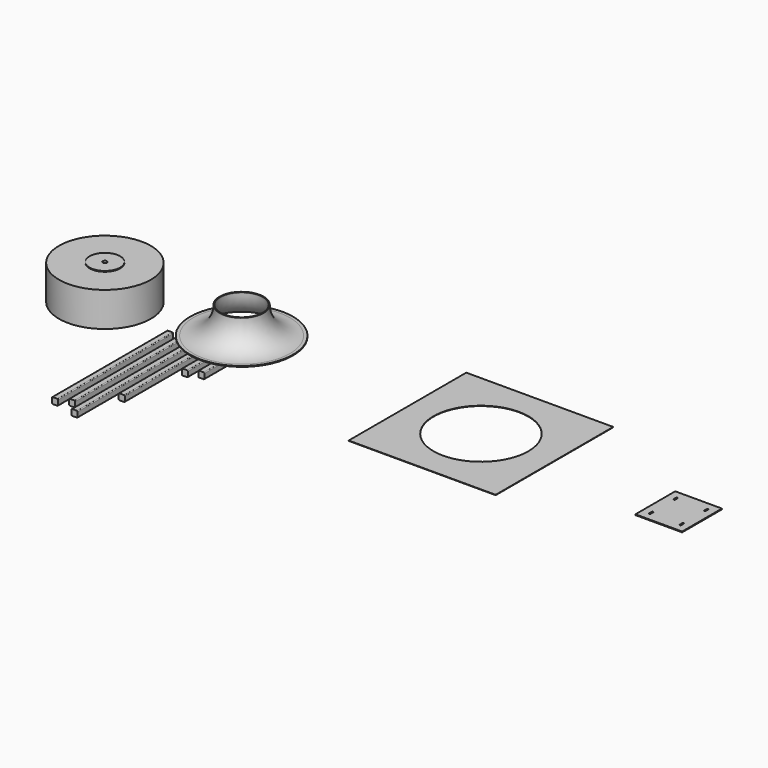
from build123d import *

# Parameters (mm, degrees)
F0_W      = 50.8
F0_H      = 50.8
F1_DEPTH  = 1193.8
F2_R      = 6.35
F3_DEPTH  = 1143
F4_DEPTH  = 1244.6
F5_DEPTH  = 882.65
F6_DEPTH  = 355.6
F9_R      = 381
F9_R_2    = 276.225
F10_DEPTH = 285.75
F11_DEPTH = 311.15
F12_W     = 1219.2
F12_H     = 1219.2
F12_R     = 393.7
F13_DEPTH = 3.175
F14_W     = 387.35
F14_H     = 412.75
F15_DEPTH = 6.35
F16_R     = 6.35
F16_2_R   = 6.35
F16_3_R   = 6.35
F16_4_R   = 6.35
F16_5_R   = 6.35
F17_R     = 276.225
F18_DEPTH = 25.4
F19_R     = 17.4625
F20_DEPTH = 25.4
F21_R     = 127
F21_R_2   = 17.4625
F22_DEPTH = 6.35
F23_R     = 279.4
F23_R_2   = 276.225
F24_DEPTH = 17.78


with BuildPart() as f1:
    # F0 (on Front) → F1 (new body)
    with BuildSketch(Plane.XZ):
        with Locations((25.4, 25.4)):
            Rectangle(F0_W, F0_H)
    extrude(amount=F1_DEPTH)

    # F2
    f2_edges = [f1.edges().sort_by_distance(p)[0] for p in [
        (0, -596.9, 50.8),
        (0, -596.9, 0),
        (50.8, -596.9, 50.8),
        (50.8, -596.9, 0),
    ]]
    fillet(f2_edges, radius=F2_R)


with BuildPart() as f3:
    # F0 (on Front) → F3 (new body)
    with BuildSketch(Plane.XZ):
        with Locations((127, 25.4)):
            Rectangle(F0_W, F0_H)
    extrude(amount=F3_DEPTH)

    # F16
    f16_edges = [f3.edges().sort_by_distance(p)[0] for p in [
        (101.6, -571.5, 50.8),
        (152.4, -571.5, 50.8),
        (101.6, -571.5, 0),
        (152.4, -571.5, 0),
    ]]
    fillet(f16_edges, radius=F16_R)


with BuildPart() as f4:
    # F0 (on Front) → F4 (new body)
    with BuildSketch(Plane.XZ):
        with Locations((228.6, 25.4)):
            Rectangle(F0_W, F0_H)
    extrude(amount=F4_DEPTH)

    # F16#2
    f16_2_edges = [f4.edges().sort_by_distance(p)[0] for p in [
        (203.2, -622.3, 50.8),
        (254, -622.3, 50.8),
        (203.2, -622.3, 0),
        (254, -622.3, 0),
    ]]
    fillet(f16_2_edges, radius=F16_2_R)


with BuildPart() as f5:
    # F0 (on Front) → F5 (new body)
    with BuildSketch(Plane.XZ):
        with Locations((330.2, 25.4)):
            Rectangle(F0_W, F0_H)
    extrude(amount=F5_DEPTH)

    # F16#3
    f16_3_edges = [f5.edges().sort_by_distance(p)[0] for p in [
        (304.8, -441.325, 0),
        (355.6, -441.325, 0),
        (304.8, -441.325, 50.8),
        (355.6, -441.325, 50.8),
    ]]
    fillet(f16_3_edges, radius=F16_3_R)


with BuildPart() as f6:
    # F0 (on Front) → F6 (new body)
    with BuildSketch(Plane.XZ):
        with Locations((431.8, 25.4)):
            Rectangle(F0_W, F0_H)
    extrude(amount=F6_DEPTH)

    # F16#4
    f16_4_edges = [f6.edges().sort_by_distance(p)[0] for p in [
        (406.4, -177.8, 0),
        (457.2, -177.8, 0),
        (406.4, -177.8, 50.8),
        (457.2, -177.8, 50.8),
    ]]
    fillet(f16_4_edges, radius=F16_4_R)


with BuildPart() as f8:
    # F7 (on Front) → F8 (revolve)
    with BuildSketch(Plane.XZ):
        with BuildLine():
            Line((216.4829341531, 213.5911434889), (191.0829341531, 213.5911434889))
            Line((191.0829341531, 213.5911434889), (191.0829341531, 207.2411434889))
            Line((191.0829341531, 207.2411434889), (216.4829341531, 207.2411434889))
            ThreePointArc((216.4829341531, 207.2411434889), (375.8824803021, 273.2665973399), (441.9079341531, 432.6661434889))
            Line((441.9079341531, 432.6661434889), (441.9079341531, 439.0161434889))
            Line((441.9079341531, 439.0161434889), (435.5579341531, 439.0161434889))
            Line((435.5579341531, 439.0161434889), (435.5579341531, 432.6661434889))
            ThreePointArc((435.5579341531, 432.6661434889), (371.3923522415, 277.7567254004), (216.4829341531, 213.5911434889))
        make_face()
    revolve(axis=Axis((618.1204341531, 0, 330.7071775198), (0, 0, -1)))


with BuildPart() as f10:
    # F9 (on Top) → F10 (new body)
    with BuildSketch(Plane.XY):
        with Locations((-625.2964735031, 136.6959810257)):
            Circle(F9_R)
        with Locations((-625.2964735031, 136.6959810257)):
            Circle(F9_R_2, mode=Mode.SUBTRACT)
    extrude(amount=F10_DEPTH)

    # F17 (on face) → F18 (join)
    with BuildSketch(Plane.XY.offset(285.75)):
        with Locations((-625.2964735031, 136.6959810257)):
            Circle(F17_R)
    extrude(amount=-F18_DEPTH)

    # F19 (on face) → F20 (cut, through all)
    with BuildSketch(Plane.XY.offset(285.75)):
        with Locations((-625.2964735031, 136.6959810257)):
            Circle(F19_R)
    extrude(amount=-F20_DEPTH, mode=Mode.SUBTRACT)

    # F21 (on face) → F22 (join)
    with BuildSketch(Plane.XY.offset(285.75)):
        with Locations((-625.2964735031, 136.6959810257)):
            Circle(F21_R)
        with Locations((-625.2964735031, 136.6959810257)):
            Circle(F21_R_2, mode=Mode.SUBTRACT)
    extrude(amount=F22_DEPTH)

    # F23 (on face) → F24 (join)
    with BuildSketch(Plane(origin=(0, 0, 0), x_dir=(1, 0, 0), z_dir=(0, 0, -1))):
        with Locations((-625.2964735031, -136.6959810257)):
            Circle(F23_R)
        with Locations((-625.2964735031, -136.6959810257)):
            Circle(F23_R_2, mode=Mode.SUBTRACT)
    extrude(amount=F24_DEPTH)


with BuildPart() as f11:
    # F0 (on Front) → F11 (new body)
    with BuildSketch(Plane.XZ):
        with Locations((533.4, 25.4)):
            Rectangle(F0_W, F0_H)
    extrude(amount=F11_DEPTH)

    # F16#5
    f16_5_edges = [f11.edges().sort_by_distance(p)[0] for p in [
        (508, -155.575, 0),
        (558.8, -155.575, 0),
        (508, -155.575, 50.8),
        (558.8, -155.575, 50.8),
    ]]
    fillet(f16_5_edges, radius=F16_5_R)


with BuildPart() as f13:
    # F12 (on Top) → F13 (new body)
    with BuildSketch(Plane.XY):
        with Locations((2436.1082060814, 209.6214594526)):
            Rectangle(F12_W, F12_H)
        with Locations((2436.1082060814, 209.6214594526)):
            Circle(F12_R, mode=Mode.SUBTRACT)
    extrude(amount=F13_DEPTH)


with BuildPart() as f15:
    # F14 (on Top) → F15 (new body)
    with BuildSketch(Plane.XY):
        with Locations((4120.9448446361, 153.7862545967)):
            Rectangle(F14_W, F14_H)
        with BuildLine():
            Line((3987.5948446361, 14.0862545967), (3987.5948446361, 39.4862545967))
            ThreePointArc((3987.5948446361, 39.4862545967), (3993.9448446361, 45.8362545967), (4000.2948446361, 39.4862545967))
            Line((4000.2948446361, 39.4862545967), (4000.2948446361, 14.0862545967))
            ThreePointArc((4000.2948446361, 14.0862545967), (3993.9448446361, 7.7362545967), (3987.5948446361, 14.0862545967))
        make_face(mode=Mode.SUBTRACT)
        with BuildLine():
            Line((4241.5948446361, 14.0862545967), (4241.5948446361, 39.4862545967))
            ThreePointArc((4241.5948446361, 39.4862545967), (4247.9448446361, 45.8362545967), (4254.2948446361, 39.4862545967))
            Line((4254.2948446361, 39.4862545967), (4254.2948446361, 14.0862545967))
            ThreePointArc((4254.2948446361, 14.0862545967), (4247.9448446361, 7.7362545967), (4241.5948446361, 14.0862545967))
        make_face(mode=Mode.SUBTRACT)
        with BuildLine():
            Line((3987.5948446361, 268.0862545967), (3987.5948446361, 293.4862545967))
            ThreePointArc((3987.5948446361, 293.4862545967), (3993.9448446361, 299.8362545967), (4000.2948446361, 293.4862545967))
            Line((4000.2948446361, 293.4862545967), (4000.2948446361, 268.0862545967))
            ThreePointArc((4000.2948446361, 268.0862545967), (3993.9448446361, 261.7362545967), (3987.5948446361, 268.0862545967))
        make_face(mode=Mode.SUBTRACT)
        with BuildLine():
            Line((4241.5948446361, 268.0862545967), (4241.5948446361, 293.4862545967))
            ThreePointArc((4241.5948446361, 293.4862545967), (4247.9448446361, 299.8362545967), (4254.2948446361, 293.4862545967))
            Line((4254.2948446361, 293.4862545967), (4254.2948446361, 268.0862545967))
            ThreePointArc((4254.2948446361, 268.0862545967), (4247.9448446361, 261.7362545967), (4241.5948446361, 268.0862545967))
        make_face(mode=Mode.SUBTRACT)
    extrude(amount=F15_DEPTH)


solid = Compound([f1.part, f3.part, f4.part, f5.part, f6.part, f8.part, f10.part, f11.part, f13.part, f15.part])
